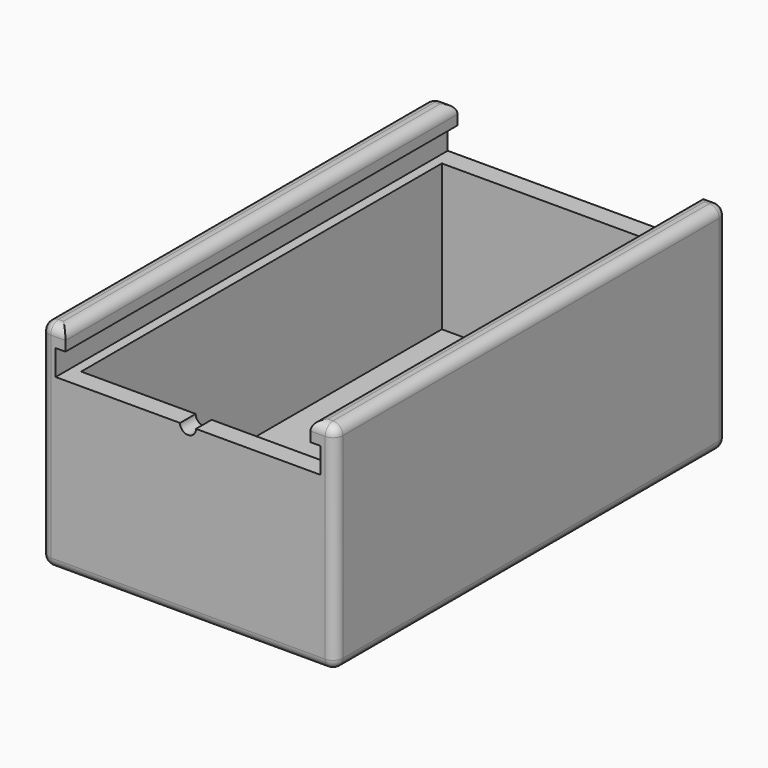
from build123d import *

# Parameters (mm, degrees)
F1_DEPTH  = 31.75
F2_W      = 2.54
F2_H      = 18.923
F3_DEPTH  = 31.75
F5_DEPTH  = 2.54
F6_W      = 10.16
F6_H      = 5.08
F7_DEPTH  = 10.16
F8_R      = 1.27
F9_R      = 2.54
F10_DEPTH = 5.08


with BuildPart() as f1:
    # F0 (on Front) → F1 (new body, symmetric)
    with BuildSketch(Plane.XZ):
        Polygon((-19.05, -13.97), (19.05, -13.97), (19.05, 13.97), (15.875, 13.97), (15.875, 11.43), (17.145, 11.43), (17.145, 8.128), (15.875, 8.128), (15.875, -10.795), (0, -10.795), (-15.875, -10.795), (-15.875, 8.128), (-17.145, 8.128), (-17.145, 11.43), (-15.875, 11.43), (-15.875, 13.97), (-19.05, 13.97), align=None)
    extrude(amount=F1_DEPTH, both=True)

    # F2 (on face) → F3 (join, through all)
    with BuildSketch(Plane(origin=(15.875, 0, 0), x_dir=(0, -1, 0), z_dir=(-1, 0, 0))):
        with Locations((-30.48, -1.3335)):
            Rectangle(F2_W, F2_H)
        with Locations((30.48, -1.3335)):
            Rectangle(F2_W, F2_H)
    extrude(amount=F3_DEPTH)

    # F4 (on face) → F5 (cut, through all)
    with BuildSketch(Plane.XZ.offset(31.75)):
        with BuildLine():
            ThreePointArc((-1.034546, 8.128), (0, 7.093454), (1.034546, 8.128))
            Line((1.034546, 8.128), (-1.034546, 8.128))
        make_face()
    extrude(amount=-F5_DEPTH, mode=Mode.SUBTRACT)

    # F6 (on face) → F7 (join)
    with BuildSketch(Plane.XY.offset(-10.795)):
        with Locations((0, -21.59)):
            Rectangle(F6_W, F6_H)
    extrude(amount=F7_DEPTH)

    # F8
    f8_edges = [f1.edges().sort_by_distance(p)[0] for p in [
        (19.05, 31.75, 0),
        (19.05, 0, 13.97),
        (19.05, -31.75, 0),
        (19.05, 0, -13.97),
        (0, -31.75, -13.97),
        (-19.05, -31.75, 0),
        (-19.05, 0, 13.97),
        (-19.05, 31.75, 0),
        (-19.05, 0, -13.97),
        (0, 31.75, -13.97),
        (0, -19.05, -0.635),
        (-5.08, -21.59, -0.635),
        (-5.08, -19.05, -5.715),
        (0, -24.13, -0.635),
        (5.08, -21.59, -0.635),
        (5.08, -24.13, -5.715),
        (5.08, -19.05, -5.715),
        (-5.08, -24.13, -5.715),
        (-15.875, 0, 13.97),
        (15.875, 0, 13.97),
        (17.4625, -31.75, 13.97),
        (-17.4625, -31.75, 13.97),
        (-17.4625, 31.75, 13.97),
        (17.4625, 31.75, 13.97),
    ]]
    fillet(f8_edges, radius=F8_R)

    # F9 (on face) → F10 (cut, through all)
    with BuildSketch(Plane(origin=(0, -19.05, 0), x_dir=(-1, 0, 0), z_dir=(0, 1, 0))):
        with Locations((0, -6.35)):
            Circle(F9_R)
    extrude(amount=-F10_DEPTH, mode=Mode.SUBTRACT)


solid = f1.part
